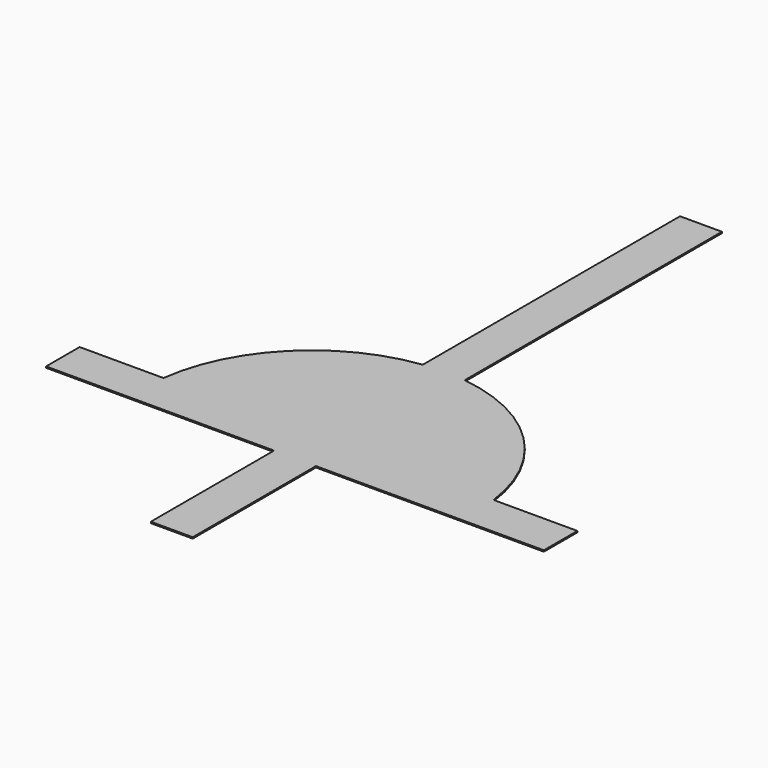
from build123d import *

# Parameters (mm, degrees)
F1_DEPTH = 1


with BuildPart() as f1:
    # F0 (on Top) → F1 (new body)
    with BuildSketch(Plane.XY):
        with BuildLine():
            ThreePointArc((-16, 125.988095), (-89.802561, 89.802561), (-125.988095, 16))
            Line((-125.988095, 16), (-190, 16))
            Line((-190, 16), (-190, 0))
            Line((-190, 0), (-190, -16))
            Line((-190, -16), (-16, -16))
            Line((-16, -16), (-16, -133.589491))
            Line((-16, -133.589491), (0, -133.589491))
            Line((0, -133.589491), (16, -133.589491))
            Line((16, -133.589491), (16, -16))
            Line((16, -16), (190, -16))
            Line((190, -16), (190, 0))
            Line((190, 0), (190, 16))
            Line((190, 16), (125.988095, 16))
            ThreePointArc((125.988095, 16), (89.802561, 89.802561), (16, 125.988095))
            Line((16, 125.988095), (16, 371.410509))
            Line((16, 371.410509), (0, 371.410509))
            Line((0, 371.410509), (-16, 371.410509))
            Line((-16, 371.410509), (-16, 125.988095))
        make_face()
    extrude(amount=F1_DEPTH)


solid = f1.part
